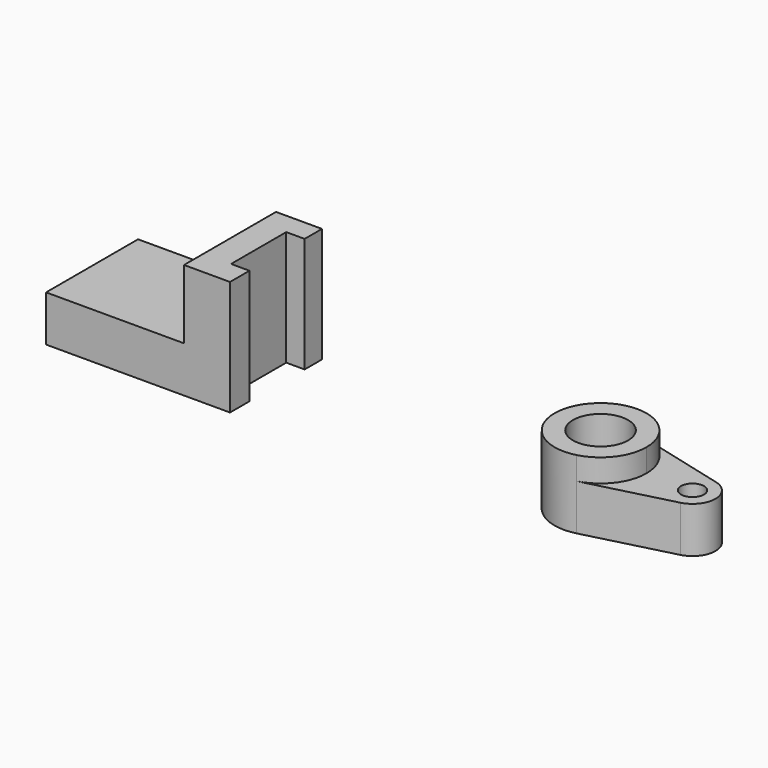
from build123d import *

# Parameters (mm, degrees)
F0_W     = 60
F0_H     = 50
F1_DEPTH = 20
F2_DEPTH = 50
F3_R     = 12
F4_DEPTH = 30
F3_R_2   = 5
F5_DEPTH = 20


with BuildPart() as f1:
    # F0 (on Top) → F1 (new body)
    with BuildSketch(Plane.XY):
        with Locations((4.106674, 1.537061)):
            Rectangle(F0_W, F0_H)
    extrude(amount=F1_DEPTH)

    # F0 (on Top) → F2 (join)
    with BuildSketch(Plane.XY):
        Polygon((54.106674, 26.537061), (34.106674, 26.537061), (34.106674, -23.462939), (54.106674, -23.462939), (54.106674, -12.886015), (46.106674, -12.886015), (46.106674, 17.113985), (54.106674, 17.113985), align=None)
    extrude(amount=F2_DEPTH)


with BuildPart() as f4:
    # F3 (on Top) → F4 (new body)
    with BuildSketch(Plane.XY):
        with BuildLine():
            ThreePointArc((201.508188, -19.364917), (212.319576, -12.247449), (216.508188, 0))
            ThreePointArc((216.508188, 0), (212.319576, 12.247449), (201.508188, 19.364917))
            ThreePointArc((201.508188, 19.364917), (176.508188, 0), (201.508188, -19.364917))
        make_face()
        with Locations((196.508188, 0)):
            Circle(F3_R, mode=Mode.SUBTRACT)
    extrude(amount=F4_DEPTH)

    # F3 (on Top) → F5 (join)
    with BuildSketch(Plane.XY):
        with BuildLine():
            ThreePointArc((201.508188, -19.364917), (212.319576, -12.247449), (216.508188, 0))
            ThreePointArc((216.508188, 0), (212.319576, 12.247449), (201.508188, 19.364917))
            ThreePointArc((201.508188, 19.364917), (176.508188, 0), (201.508188, -19.364917))
        make_face()
        with Locations((196.508188, 0)):
            Circle(F3_R, mode=Mode.SUBTRACT)
        with BuildLine():
            ThreePointArc((201.508188, 19.364917), (212.319576, 12.247449), (216.508188, 0))
            ThreePointArc((216.508188, 0), (212.319576, -12.247449), (201.508188, -19.364917))
            Line((201.508188, -19.364917), (239.008188, -9.682458))
            ThreePointArc((239.008188, -9.682458), (246.508188, 0), (239.008188, 9.682458))
            Line((239.008188, 9.682458), (201.508188, 19.364917))
        make_face()
        with Locations((236.508188, 0)):
            Circle(F3_R_2, mode=Mode.SUBTRACT)
    extrude(amount=F5_DEPTH)


solid = Compound([f1.part, f4.part])
